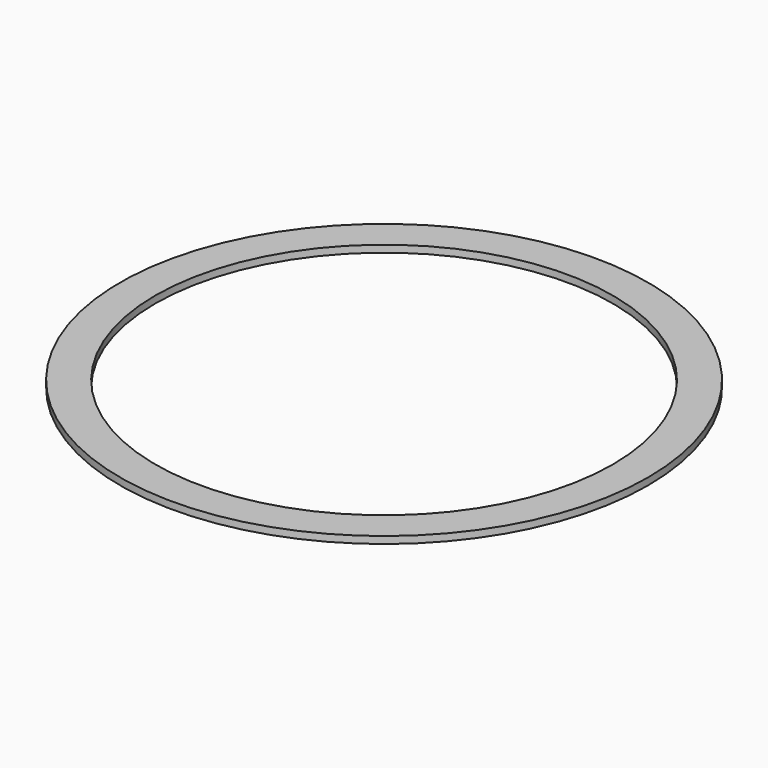
from build123d import *

# Parameters (mm, degrees)
SKETCH_R   = 37.5
SKETCH_R_2 = 32.5
PAD_DEPTH  = 1


with BuildPart() as part:
    # Sketch → Pad (new body)
    with BuildSketch(Plane.XY):
        Circle(SKETCH_R)
        Circle(SKETCH_R_2, mode=Mode.SUBTRACT)
    extrude(amount=PAD_DEPTH)


solid = part.part
